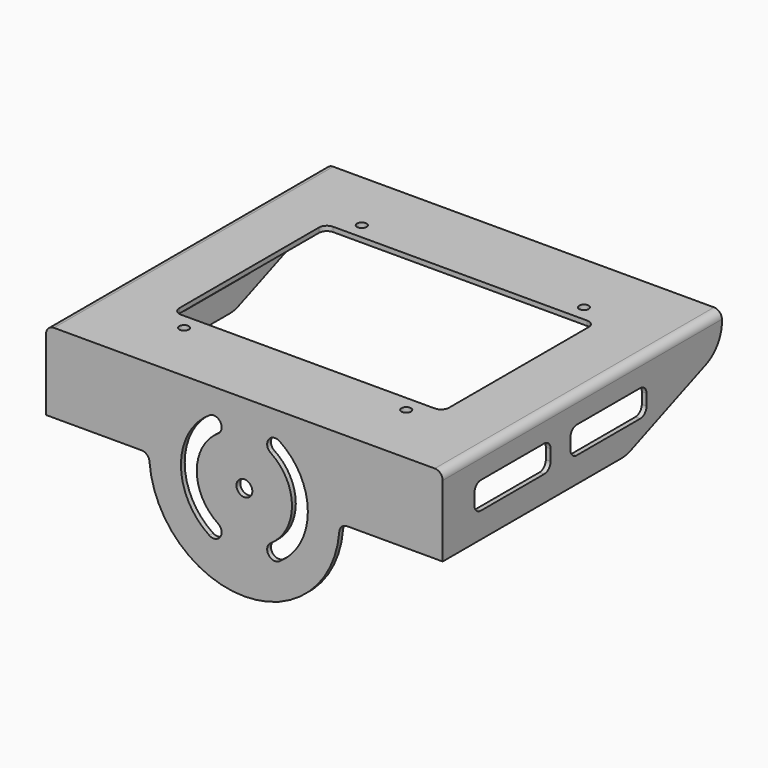
from build123d import *

# Parameters (mm, degrees)
F7_DEPTH  = 220
F8_DEPTH  = 3
F9_DEPTH  = 3
F0_R      = 5
F10_DEPTH = 3
F11_R     = 5
F12_R     = 5
F13_R     = 3
F14_DEPTH = 25


with BuildPart() as f7:
    # F4 (on offset) → F7 (new body)
    with BuildSketch(Plane.XZ.offset(-220)):
        with BuildLine():
            Line((125, -6.430699), (125, -2))
            ThreePointArc((125, -2), (124.414214, -0.585786), (123, 0))
            Line((123, 0), (-123, 0))
            ThreePointArc((-123, 0), (-124.414214, -0.585786), (-125, -2))
            Line((-125, -2), (-125, -6.430699))
            Line((-125, -6.430699), (-122, -6.430699))
            Line((-122, -6.430699), (-122, -5))
            ThreePointArc((-122, -5), (-121.414214, -3.585786), (-120, -3))
            Line((-120, -3), (120, -3))
            ThreePointArc((120, -3), (121.414214, -3.585786), (122, -5))
            Line((122, -5), (122, -6.430699))
            Line((122, -6.430699), (125, -6.430699))
        make_face()
    extrude(amount=F7_DEPTH)

    # F6 (on offset) → F8 (join)
    with BuildSketch(Plane.YZ.offset(-125)):
        with BuildLine():
            Line((220, -6.430699), (220, 0))
            Line((220, 0), (0, 0))
            Line((0, 0), (0, -50))
            Line((0, -50), (140.739724, -50))
            ThreePointArc((140.739724, -50), (144.5026, -49.64283), (148.131078, -48.584076))
            Line((148.131078, -48.584076), (207.391354, -25.014775))
            ThreePointArc((207.391354, -25.014775), (216.550334, -17.659522), (220, -6.430699))
        make_face()
        with BuildLine():
            ThreePointArc((25, -22), (26.464466, -18.464466), (30, -17))
            Line((30, -17), (80, -17))
            ThreePointArc((80, -17), (83.535534, -18.464466), (85, -22))
            Line((85, -22), (85, -29))
            ThreePointArc((85, -29), (83.535534, -32.535534), (80, -34))
            Line((80, -34), (30, -34))
            ThreePointArc((30, -34), (26.464466, -32.535534), (25, -29))
            Line((25, -29), (25, -22))
        make_face(mode=Mode.SUBTRACT)
        with BuildLine():
            ThreePointArc((100.627564, -22), (102.09203, -18.464466), (105.627564, -17))
            Line((105.627564, -17), (155.627564, -17))
            ThreePointArc((155.627564, -17), (159.163098, -18.464466), (160.627564, -22))
            Line((160.627564, -22), (160.627564, -29))
            ThreePointArc((160.627564, -29), (159.163098, -32.535534), (155.627564, -34))
            Line((155.627564, -34), (105.627564, -34))
            ThreePointArc((105.627564, -34), (102.09203, -32.535534), (100.627564, -29))
            Line((100.627564, -29), (100.627564, -22))
        make_face(mode=Mode.SUBTRACT)
    extrude(amount=F8_DEPTH)

    # F2 (on offset) → F9 (join)
    with BuildSketch(Plane.YZ.offset(125)):
        with BuildLine():
            Line((220, 0), (0, 0))
            Line((0, 0), (0, -50))
            Line((0, -50), (140.739724, -50))
            ThreePointArc((140.739724, -50), (144.5026, -49.64283), (148.131078, -48.584076))
            Line((148.131078, -48.584076), (207.391354, -25.014775))
            ThreePointArc((207.391354, -25.014775), (216.550334, -17.659522), (220, -6.430699))
            Line((220, -6.430699), (220, 0))
        make_face()
        with BuildLine():
            ThreePointArc((25, -22), (26.464466, -18.464466), (30, -17))
            Line((30, -17), (80, -17))
            ThreePointArc((80, -17), (83.535534, -18.464466), (85, -22))
            Line((85, -22), (85, -29))
            ThreePointArc((85, -29), (83.535534, -32.535534), (80, -34))
            Line((80, -34), (30, -34))
            ThreePointArc((30, -34), (26.464466, -32.535534), (25, -29))
            Line((25, -29), (25, -22))
        make_face(mode=Mode.SUBTRACT)
        with BuildLine():
            ThreePointArc((100.627564, -22), (102.09203, -18.464466), (105.627564, -17))
            Line((105.627564, -17), (155.627564, -17))
            ThreePointArc((155.627564, -17), (159.163098, -18.464466), (160.627564, -22))
            Line((160.627564, -22), (160.627564, -29))
            ThreePointArc((160.627564, -29), (159.163098, -32.535534), (155.627564, -34))
            Line((155.627564, -34), (105.627564, -34))
            ThreePointArc((105.627564, -34), (102.09203, -32.535534), (100.627564, -29))
            Line((100.627564, -29), (100.627564, -22))
        make_face(mode=Mode.SUBTRACT)
    extrude(amount=-F9_DEPTH)

    # F0 (on Front) → F10 (join)
    with BuildSketch(Plane.XZ):
        with BuildLine():
            ThreePointArc((-64.807407, -50), (-61.410576, -51.331003), (-59.822222, -54.615385))
            ThreePointArc((-59.822222, -54.615385), (0, -110), (59.822222, -54.615385))
            ThreePointArc((59.822222, -54.615385), (61.410576, -51.331003), (64.807407, -50))
            Line((64.807407, -50), (125, -50))
            Line((125, -50), (125, 0))
            Line((125, 0), (-125, 0))
            Line((-125, 0), (-125, -50))
            Line((-125, -50), (-64.807407, -50))
        make_face()
        with BuildLine():
            ThreePointArc((-16.583124, -25), (-30, -50), (-16.583124, -75))
            ThreePointArc((-16.583124, -75), (-15.180311, -81.930521), (-22.110832, -83.333333))
            ThreePointArc((-22.110832, -83.333333), (-40, -50), (-22.110832, -16.666667))
            ThreePointArc((-22.110832, -16.666667), (-15.180311, -18.069479), (-16.583124, -25))
        make_face(mode=Mode.SUBTRACT)
        with Locations((0, -50)):
            Circle(F0_R, mode=Mode.SUBTRACT)
        with BuildLine():
            ThreePointArc((22.110832, -83.333333), (15.180311, -81.930521), (16.583124, -75))
            ThreePointArc((16.583124, -75), (30, -50), (16.583124, -25))
            ThreePointArc((16.583124, -25), (15.180311, -18.069479), (22.110832, -16.666667))
            ThreePointArc((22.110832, -16.666667), (40, -50), (22.110832, -83.333333))
        make_face(mode=Mode.SUBTRACT)
    extrude(amount=-F10_DEPTH)

    # F11
    f11_edges = [f7.edges().sort_by_distance(p)[0] for p in [
        (125, 110, 0),
    ]]
    fillet(f11_edges, radius=F11_R)

    # F12
    f12_edges = [f7.edges().sort_by_distance(p)[0] for p in [
        (-125, 110, 0),
    ]]
    fillet(f12_edges, radius=F12_R)

    # F13 (on face) → F14 (cut)
    with BuildSketch(Plane.XY):
        with BuildLine():
            Line((-80, 50), (80, 50))
            ThreePointArc((80, 50), (83.535534, 51.464466), (85, 55))
            Line((85, 55), (85, 165))
            ThreePointArc((85, 165), (83.535534, 168.535534), (80, 170))
            Line((80, 170), (-80, 170))
            ThreePointArc((-80, 170), (-83.535534, 168.535534), (-85, 165))
            Line((-85, 165), (-85, 55))
            ThreePointArc((-85, 55), (-83.535534, 51.464466), (-80, 50))
        make_face()
        with Locations((-70, 180)):
            Circle(F13_R)
        with Locations((-70, 40)):
            Circle(F13_R)
        with Locations((70, 40)):
            Circle(F13_R)
        with Locations((70, 180)):
            Circle(F13_R)
    extrude(amount=-F14_DEPTH, mode=Mode.SUBTRACT)


solid = f7.part
